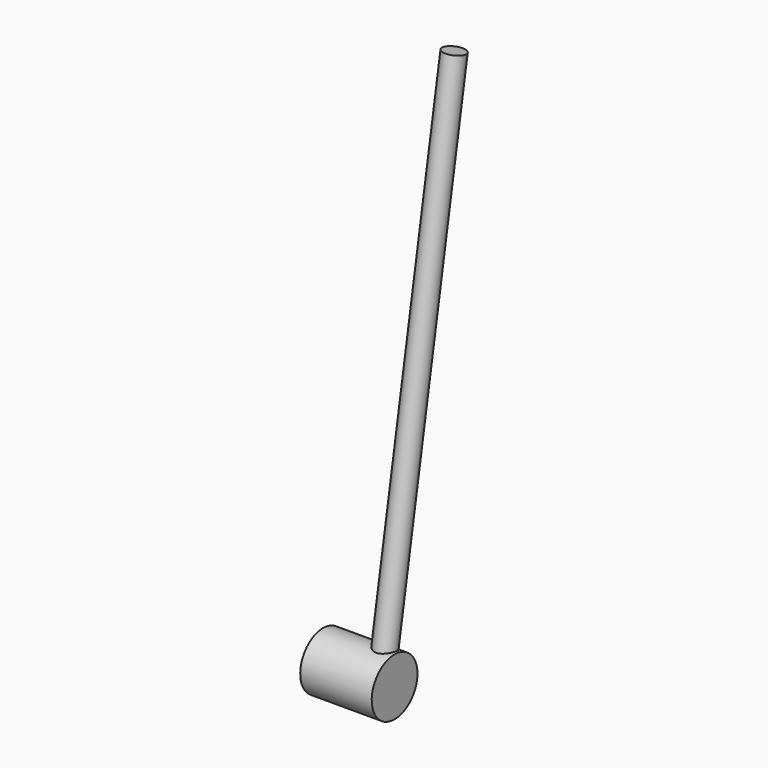
from build123d import *

# Parameters (mm, degrees)
CYLINDER002_R           = 40
CYLINDER002_DEPTH       = 100
CYLINDER002_PITCH_ANGLE = 90
CYLINDER001_R           = 15
CYLINDER001_DEPTH       = 736.104612
CYLINDER001_ROLL_ANGLE  = -10


with BuildPart() as eje_brazo:
    # Cylinder002 → Cylinder002 (new body)
    with BuildSketch(Plane.XY):
        Circle(CYLINDER002_R)
    extrude(amount=CYLINDER002_DEPTH)


with BuildPart() as eje_brazo_1:
    # Cylinder002 pitch: moved
    add(eje_brazo.part.rotate(Axis((0, 0, 0), (0, 1, 0)), CYLINDER002_PITCH_ANGLE))


with BuildPart() as eje_brazo_2:
    # Cylinder002 placement: moved
    add(eje_brazo_1.part.moved(Location((-59, 715, 400))))


with BuildPart() as brazo:
    # Cylinder001 → Cylinder001 (new body)
    with BuildSketch(Plane.XY):
        Circle(CYLINDER001_R)
    extrude(amount=CYLINDER001_DEPTH)


with BuildPart() as brazo_1:
    # Cylinder001 roll: moved
    add(brazo.part.rotate(Axis((0, 0, 0), (1, 0, 0)), CYLINDER001_ROLL_ANGLE))


with BuildPart() as brazo_2:
    # Cylinder001 placement: moved
    add(brazo_1.part.moved(Location((-40, 715, 400))))

    # Fusion: union Eje_brazo
    add(eje_brazo_2.part)


with BuildPart() as obj1:
    # mirror: instance of Brazo
    add(brazo_2.part.mirror(Plane(origin=(500, 0, 0), x_dir=(0, -1, 0), z_dir=(1, 0, 0))))


solid = obj1.part
